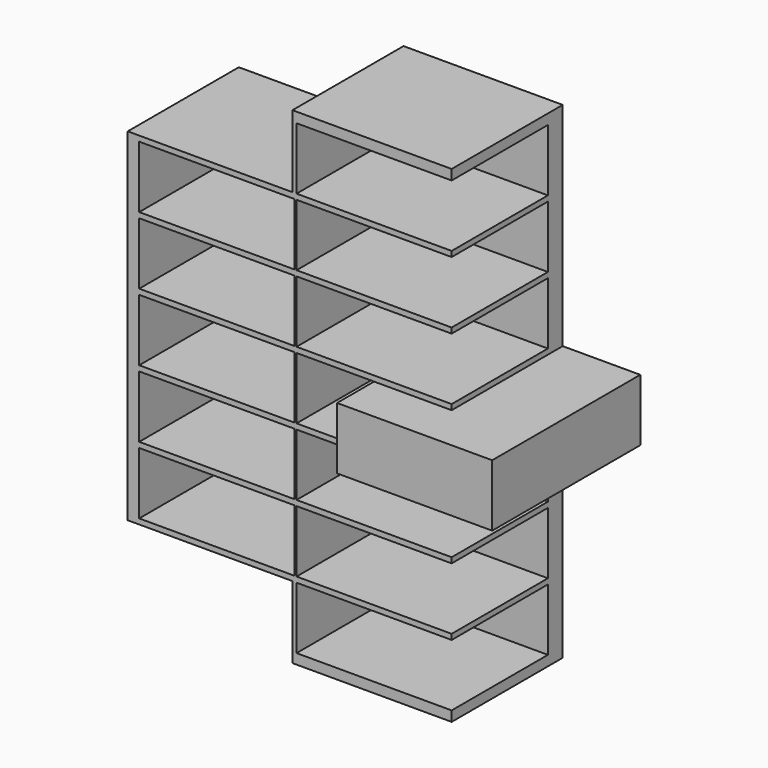
from build123d import *

# Parameters (mm, degrees)
F1_DEPTH = 75
F2_W     = 83.8
F2_H     = 33.5
F3_DEPTH = 65
F4_W     = 83.8
F4_H     = 33.5
F5_DEPTH = 100
F6_DEPTH = 100


with BuildPart() as f1:
    # F0 (on Front) → F1 (new body)
    with BuildSketch(Plane.XZ):
        Polygon((0, 0), (0, 131.5), (-86, 131.5), (-86, 92.5), (-175, 92.5), (-175, 0), (-175, -92.5), (-86, -92.5), (-86, -131.5), (0, -131.5), align=None)
    extrude(amount=F1_DEPTH)

    # F2 (on face) → F3 (cut)
    with BuildSketch(Plane.XZ.offset(75)):
        with Locations((-41.9, 109.272)):
            Rectangle(F2_W, F2_H)
        with Locations((-126.904, 72.848)):
            Rectangle(F2_W, F2_H)
        with Locations((-41.9, 72.848)):
            Rectangle(F2_W, F2_H)
        with Locations((-126.904, 36.424)):
            Rectangle(F2_W, F2_H)
        with Locations((-41.9, 36.424)):
            Rectangle(F2_W, F2_H)
        with Locations((-126.904, 0)):
            Rectangle(F2_W, F2_H)
        with Locations((-41.9, 0)):
            Rectangle(F2_W, F2_H)
        with Locations((-126.904, -36.424)):
            Rectangle(F2_W, F2_H)
        with Locations((-41.9, -36.424)):
            Rectangle(F2_W, F2_H)
        with Locations((-126.904, -72.848)):
            Rectangle(F2_W, F2_H)
        with Locations((-41.9, -72.848)):
            Rectangle(F2_W, F2_H)
        with Locations((-41.9, -109.272)):
            Rectangle(F2_W, F2_H)
    extrude(amount=-F3_DEPTH, mode=Mode.SUBTRACT)


with BuildPart() as f5:
    # F4 (on Front) → F5 (new body)
    with BuildSketch(Plane.XZ):
        Rectangle(F4_W, F4_H)
    extrude(amount=F5_DEPTH)


with BuildPart() as f6:
    # F4 (on Front) → F6 (new body)
    with BuildSketch(Plane.XZ):
        Rectangle(F4_W, F4_H)
    extrude(amount=F6_DEPTH)


solid = Compound([f1.part, f5.part, f6.part])
